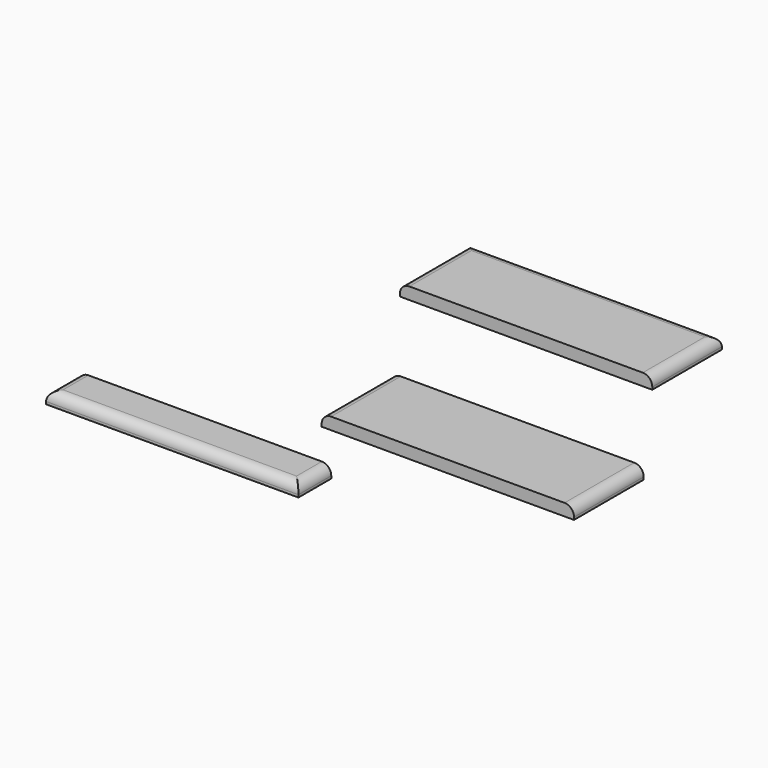
from build123d import *

# Parameters (mm, degrees)
F0_W     = 400
F0_H     = 138
F0_H_2   = 65
F1_DEPTH = 19
F2_R     = 15


with BuildPart() as f1:
    # F0 (on Top) → F1 (new body)
    with BuildSketch(Plane.XY):
        with Locations((-21.084036, -90.183537)):
            Rectangle(F0_W, F0_H)
        with Locations((-163.400936, 242.755899)):
            Rectangle(F0_W, F0_H)
        with Locations((-324.936855, -292.830824)):
            Rectangle(F0_W, F0_H_2)
    extrude(amount=F1_DEPTH)

    # F2
    f2_edges = [f1.edges().sort_by_distance(p)[0] for p in [
        (-324.936855, -325.330824, 19),
        (-124.936855, -292.830824, 19),
        (-524.936855, -292.830824, 19),
        (-221.084036, -90.183537, 19),
        (178.915964, -90.183537, 19),
        (36.599064, 242.755899, 19),
        (-163.400936, 311.755899, 19),
        (-363.400936, 242.755899, 19),
    ]]
    fillet(f2_edges, radius=F2_R)


solid = f1.part
